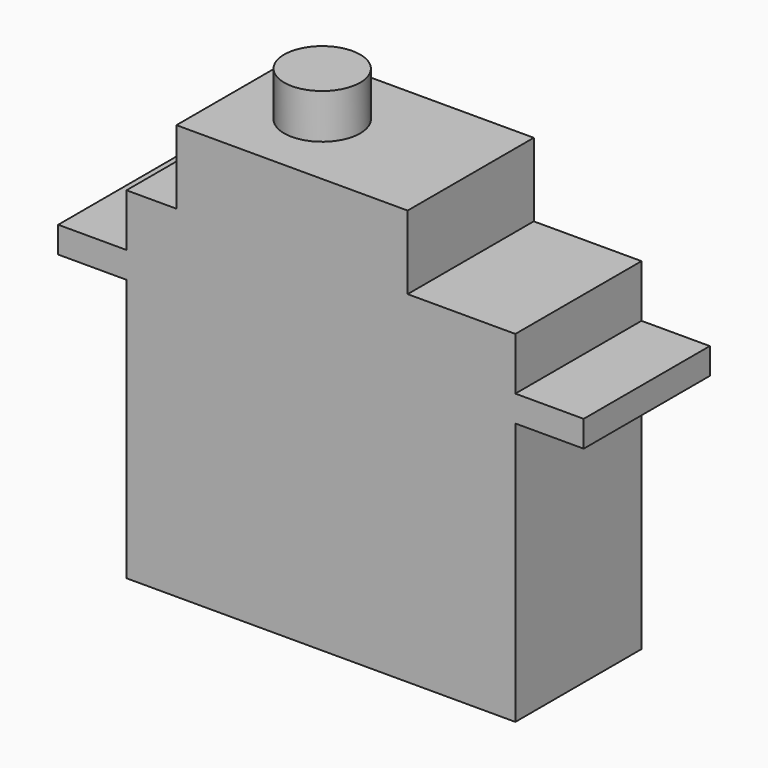
from build123d import *

# Parameters (mm, degrees)
F0_W     = 14.8
F0_H     = 12
F1_DEPTH = 26
F2_W     = 12
F2_H     = 2
F3_DEPTH = 5.2
F5_W     = 17.6
F5_H     = 12
F6_DEPTH = 5.6
F7_R     = 2.895
F8_DEPTH = 3.4


with BuildPart() as f1:
    # F0 (on Top) → F1 (new body)
    with BuildSketch(Plane.XY):
        with Locations((7.4, 0)):
            Rectangle(F0_W, F0_H)
    extrude(amount=F1_DEPTH)

    # F2 (on face) → F3 (join)
    with BuildSketch(Plane.YZ.offset(14.8)):
        with Locations((0, 21)):
            Rectangle(F2_W, F2_H)
    extrude(amount=F3_DEPTH)

    # F4: F1 across plane


with BuildPart() as f1_1:
    add(f1.part)
    add(f1.part.mirror(Plane.YZ))

    # F5 (on face) → F6 (join)
    with BuildSketch(Plane.XY.offset(26)):
        with Locations((-2.2, 0)):
            Rectangle(F5_W, F5_H)
    extrude(amount=F6_DEPTH)

    # F7 (on face) → F8 (join)
    with BuildSketch(Plane.XY.offset(31.6)):
        with Locations((-4.705, 0)):
            Circle(F7_R)
    extrude(amount=F8_DEPTH)


solid = f1_1.part
